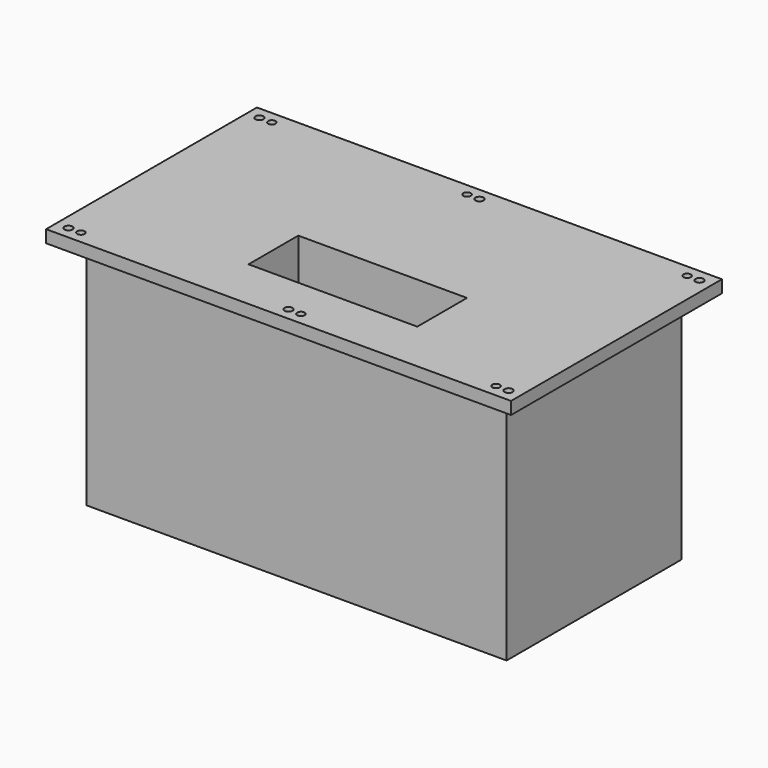
from build123d import *

# Parameters (mm, degrees)
F0_W     = 374
F0_H     = 212
F1_DEPTH = 10
F2_W     = 338
F2_H     = 176
F3_DEPTH = 187
F4_W     = 135.732657
F4_H     = 50
F5_DEPTH = 50
F7_D     = 6
F7_DEPTH = 10
F8_D     = 6.5
F8_DEPTH = 10


with BuildPart() as f1:
    # F0 (on Top) → F1 (new body)
    with BuildSketch(Plane.XY):
        Rectangle(F0_W, F0_H)
    extrude(amount=F1_DEPTH)

    # F2 (on face) → F3 (join)
    with BuildSketch(Plane(origin=(0, 0, 0), x_dir=(1, 0, 0), z_dir=(0, 0, -1))):
        Rectangle(F2_W, F2_H)
    extrude(amount=F3_DEPTH)

    # F4 (on face) → F5 (cut)
    with BuildSketch(Plane.XY.offset(10)):
        with Locations((10.02105, -38.9)):
            Rectangle(F4_W, F4_H)
    extrude(amount=-F5_DEPTH, mode=Mode.SUBTRACT)

    # F7
    with Locations(Plane.XY.offset(10)):
        with Locations((-167, 96), (-167, -96), (167, -96), (167, 96), (-10, 96), (10, -96)):
            Hole(F7_D / 2, depth=F7_DEPTH)

    # F8
    with Locations(Plane.XY.offset(10)):
        with Locations((-177, 96), (-177, -96), (0, -96), (0, 96), (177, 96), (177, -96)):
            Hole(F8_D / 2, depth=F8_DEPTH)


solid = f1.part
